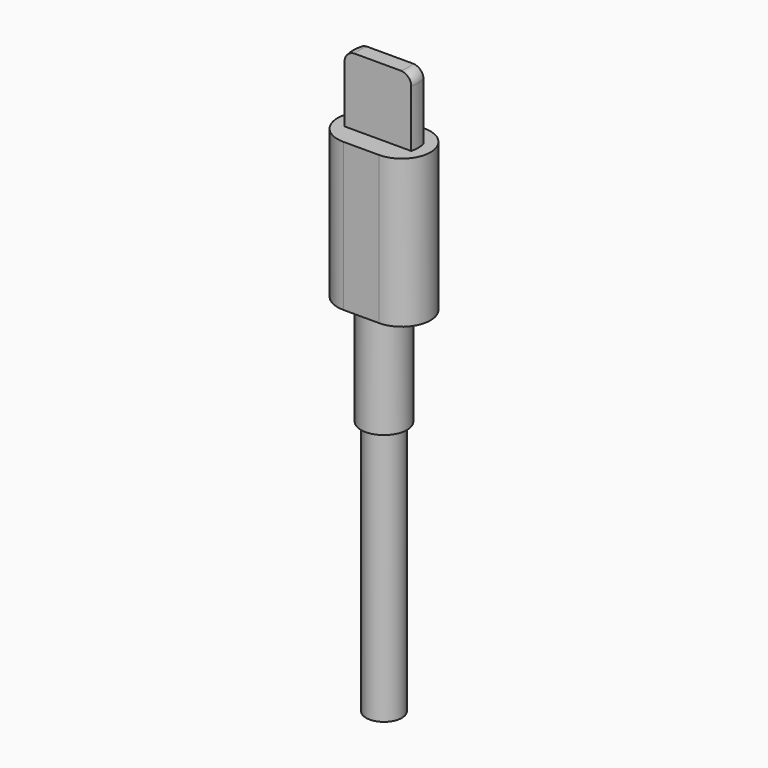
from build123d import *

# Parameters (mm, degrees)
F1_DEPTH = 14.5
F3_DEPTH = 6.6
F4_R     = 1
F5_R     = 2.25
F6_DEPTH = 10.2
F7_R     = 1.75
F8_DEPTH = 25


with BuildPart() as f1:
    # F0 (on Top) → F1 (new body)
    with BuildSketch(Plane.XY):
        with BuildLine():
            ThreePointArc((1.75, -2.8), (4.55, 0), (1.75, 2.8))
            Line((1.75, 2.8), (-1.75, 2.8))
            ThreePointArc((-1.75, 2.8), (-4.55, 0), (-1.75, -2.8))
            Line((-1.75, -2.8), (1.75, -2.8))
        make_face()
    extrude(amount=F1_DEPTH)

    # F2 (on face) → F3 (join)
    with BuildSketch(Plane.XY.offset(14.5)):
        with BuildLine():
            Line((3.264966, 0.75), (-3.264966, 0.75))
            ThreePointArc((-3.264966, 0.75), (-3.35, 0), (-3.264966, -0.75))
            Line((-3.264966, -0.75), (3.264966, -0.75))
            ThreePointArc((3.264966, -0.75), (3.35, 0), (3.264966, 0.75))
        make_face()
    extrude(amount=F3_DEPTH)

    # F4
    f4_edges = [f1.edges().sort_by_distance(p)[0] for p in [
        (-3.35, 0, 21.1),
        (3.35, 0, 21.1),
    ]]
    fillet(f4_edges, radius=F4_R)

    # F5 (on face) → F6 (join)
    with BuildSketch(Plane(origin=(0, 0, 0), x_dir=(1, 0, 0), z_dir=(0, 0, -1))):
        Circle(F5_R)
    extrude(amount=F6_DEPTH)

    # F7 (on face) → F8 (join)
    with BuildSketch(Plane(origin=(0, 0, -10.2), x_dir=(1, 0, 0), z_dir=(0, 0, -1))):
        Circle(F7_R)
    extrude(amount=F8_DEPTH)


solid = f1.part
